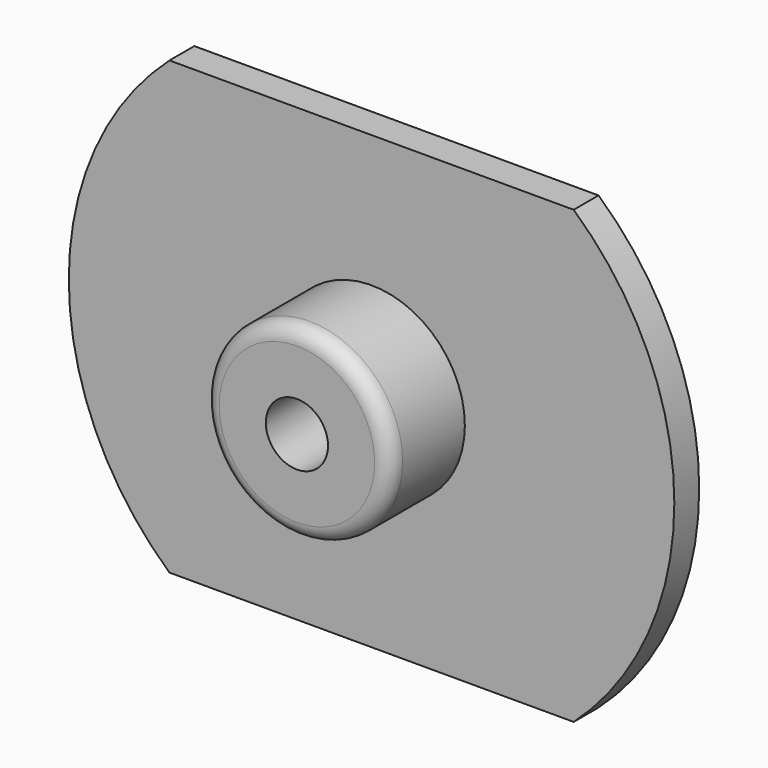
from build123d import *

# Parameters (mm, degrees)
SKETCH255_AS_DRAWN_R                 = 1
EXTRUDE056_DEPTH                     = 5
EXTRUDE056_ONTO_SKETCH255_ROLL_ANGLE = 90
SKETCH254_AS_DRAWN_R                 = 3
EXTRUDE057_DEPTH                     = 3
EXTRUDE057_ONTO_SKETCH254_ROLL_ANGLE = 90
FILLET003_R                          = 0.5
EXTRUDE048_DEPTH                     = 1
EXTRUDE048_ONTO_SKETCH245_ROLL_ANGLE = 90


with BuildPart() as extrude056:
    # Sketch255 as drawn → Extrude056 (new)
    with BuildSketch(Plane.XY):
        Circle(SKETCH255_AS_DRAWN_R)
    extrude(amount=-EXTRUDE056_DEPTH)


with BuildPart() as extrude056_1:
    # Extrude056 onto Sketch255 roll: moved
    add(extrude056.part.rotate(Axis((0, 0, 0), (1, 0, 0)), EXTRUDE056_ONTO_SKETCH255_ROLL_ANGLE))


with BuildPart() as extrude056_2:
    # Extrude056 onto Sketch255 placement: moved
    add(extrude056_1.part.moved(Location((0, -3, 0))))


with BuildPart() as fillet003:
    # Sketch254 as drawn → Extrude057 (new)
    with BuildSketch(Plane.XY):
        Circle(SKETCH254_AS_DRAWN_R)
    extrude(amount=-EXTRUDE057_DEPTH)


with BuildPart() as fillet003_1:
    # Extrude057 onto Sketch254 roll: moved
    add(fillet003.part.rotate(Axis((0, 0, 0), (1, 0, 0)), EXTRUDE057_ONTO_SKETCH254_ROLL_ANGLE))


with BuildPart() as fillet003_2:
    # Extrude057 onto Sketch254 placement: moved
    add(fillet003_1.part.moved(Location((0, -2.5, 0))))


with BuildPart() as fillet003_3:
    # Extrude057 placement: moved
    add(fillet003_2.part.moved(Location((0, 0.5, 0))))

    # Fillet003
    fillet003_edges = [fillet003_3.edges().sort_by_distance(p)[0] for p in [
        (-3, -2, 0),
    ]]
    fillet(fillet003_edges, radius=FILLET003_R)


with BuildPart() as cut034:
    # Sketch245 as drawn → Extrude048 (new)
    with BuildSketch(Plane.XY):
        with BuildLine():
            Line((-6.5, 7.250002), (6.499997, 7.250002))
            ThreePointArc((6.499997, -7.250002), (9.737171, 0), (6.499997, 7.250002))
            Line((-6.5, -7.250002), (6.499997, -7.250002))
            ThreePointArc((-6.5, 7.250002), (-9.737172, 0), (-6.5, -7.250002))
        make_face()
    extrude(amount=-EXTRUDE048_DEPTH)


with BuildPart() as cut034_1:
    # Extrude048 onto Sketch245 roll: moved
    add(cut034.part.rotate(Axis((0, 0, 0), (1, 0, 0)), EXTRUDE048_ONTO_SKETCH245_ROLL_ANGLE))


with BuildPart() as cut034_2:
    # Extrude048 onto Sketch245 placement: moved
    add(cut034_1.part)


with BuildPart() as cut034_3:
    # Extrude048 placement: moved
    add(cut034_2.part.moved(Location((0, 1, 0))))

    # Fusion018: union Fillet003
    add(fillet003_3.part)

    # Cut034: cut Extrude056
    add(extrude056_2.part, mode=Mode.SUBTRACT)


solid = cut034_3.part
